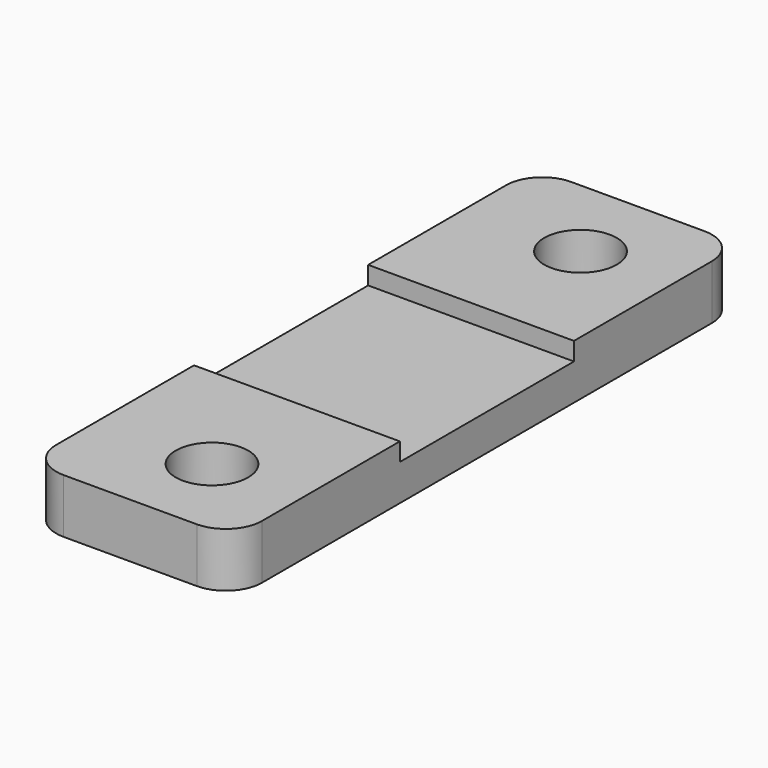
from build123d import *

# Parameters (mm, degrees)
F0_R     = 2
F0_W     = 11.35
F0_H     = 7.5
F1_DEPTH = 3
F2_W     = 11.35
F2_H     = 12
F3_DEPTH = 1


with BuildPart() as f1:
    # F0 (on Top) → F1 (new body)
    with BuildSketch(Plane.XY):
        with BuildLine():
            Line((-6.075, -6.174648), (5.275, -6.174648))
            Line((5.275, -6.174648), (5.275, 1.825352))
            ThreePointArc((5.275, 1.825352), (4.689214, 3.239566), (3.275, 3.825352))
            Line((3.275, 3.825352), (-4.075, 3.825352))
            ThreePointArc((-4.075, 3.825352), (-5.489214, 3.239566), (-6.075, 1.825352))
            Line((-6.075, 1.825352), (-6.075, -6.174648))
        make_face()
        with Locations((0.275, -0.974648)):
            Circle(F0_R, mode=Mode.SUBTRACT)
        with BuildLine():
            Line((5.275, -21.174648), (5.275, -13.674648))
            Line((5.275, -13.674648), (-6.075, -13.674648))
            Line((-6.075, -13.674648), (-6.075, -21.174648))
            Line((-6.075, -21.174648), (-6.075, -29.174648))
            ThreePointArc((-6.075, -29.174648), (-5.489214, -30.588861), (-4.075, -31.174648))
            Line((-4.075, -31.174648), (3.275, -31.174648))
            ThreePointArc((3.275, -31.174648), (4.689214, -30.588861), (5.275, -29.174648))
            Line((5.275, -29.174648), (5.275, -21.174648))
        make_face()
        with Locations((0.275, -26.374648)):
            Circle(F0_R, mode=Mode.SUBTRACT)
        with Locations((-0.4, -9.924648)):
            Rectangle(F0_W, F0_H)
        with BuildLine():
            Line((-6.075, -6.174648), (5.275, -6.174648))
            Line((5.275, -6.174648), (5.275, 1.825352))
            ThreePointArc((5.275, 1.825352), (4.689214, 3.239566), (3.275, 3.825352))
            Line((3.275, 3.825352), (-4.075, 3.825352))
            ThreePointArc((-4.075, 3.825352), (-5.489214, 3.239566), (-6.075, 1.825352))
            Line((-6.075, 1.825352), (-6.075, -6.174648))
        make_face()
        with Locations((0.275, -0.974648)):
            Circle(F0_R, mode=Mode.SUBTRACT)
    extrude(amount=F1_DEPTH)

    # F2 (on face) → F3 (cut)
    with BuildSketch(Plane.XY.offset(3)):
        with Locations((-0.4, -13.674648)):
            Rectangle(F2_W, F2_H)
    extrude(amount=-F3_DEPTH, mode=Mode.SUBTRACT)


solid = f1.part
